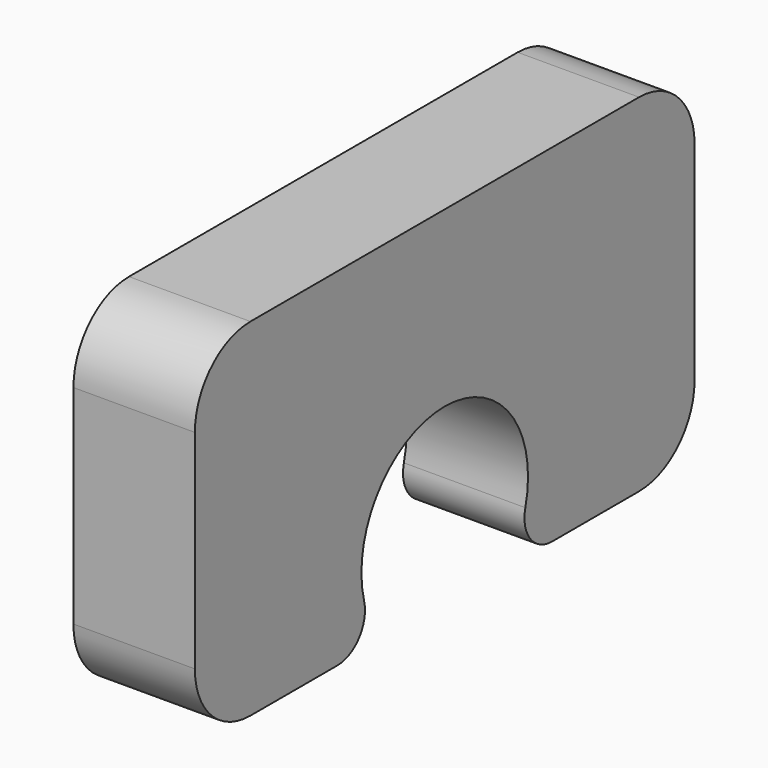
from build123d import *

# Parameters (mm, degrees)
F1_DEPTH = 3.5


with BuildPart() as f1:
    # F0 (on Right) → F1 (new body)
    with BuildSketch(Plane.YZ):
        with BuildLine():
            Line((7, 5), (-7, 5))
            ThreePointArc((-7, 5), (-8.414214, 4.414214), (-9, 3))
            Line((-9, 3), (-9, -3))
            ThreePointArc((-9, -3), (-8.414214, -4.414214), (-7, -5))
            Line((-7, -5), (-3.872983, -5))
            ThreePointArc((-3.872983, -5), (-3.082414, -4.612372), (-2.904738, -3.75))
            ThreePointArc((-2.904738, -3.75), (0, 0), (2.904738, -3.75))
            ThreePointArc((2.904738, -3.75), (3.082414, -4.612372), (3.872983, -5))
            Line((3.872983, -5), (7, -5))
            ThreePointArc((7, -5), (8.414214, -4.414214), (9, -3))
            Line((9, -3), (9, 3))
            ThreePointArc((9, 3), (8.414214, 4.414214), (7, 5))
        make_face()
    extrude(amount=F1_DEPTH)


solid = f1.part
